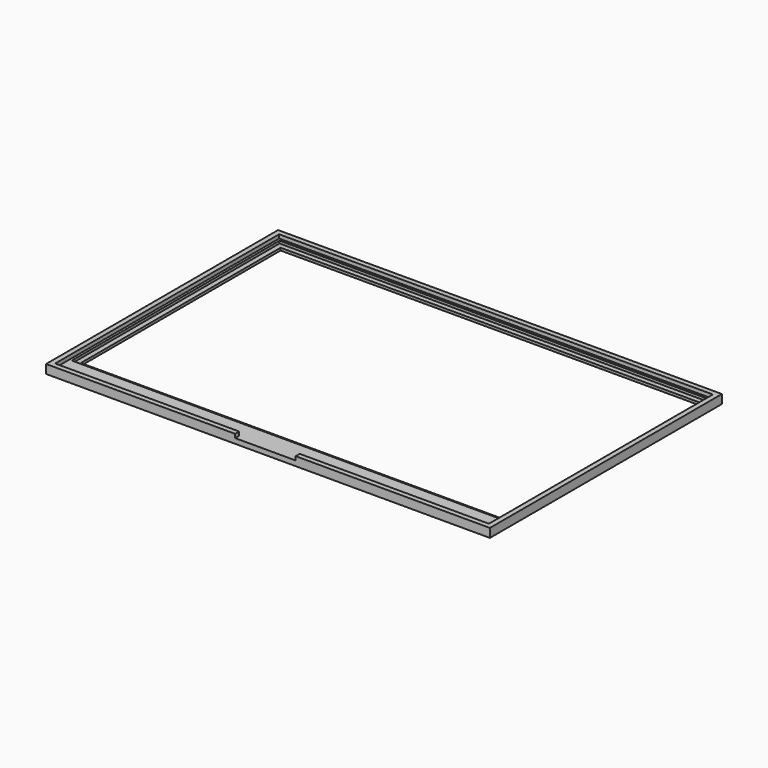
from build123d import *

# Parameters (mm, degrees)
SKETCH025_W     = 176
SKETCH025_H     = 115
SKETCH025_W_2   = 166
SKETCH025_H_2   = 99
PAD009_DEPTH    = 2
SKETCH026_W     = 170
SKETCH026_H     = 103
POCKET012_DEPTH = 1
SKETCH027_W     = 176
SKETCH027_H     = 115
SKETCH027_W_2   = 172
SKETCH027_H_2   = 111
PAD010_DEPTH    = 3.5
SKETCH028_W     = 24
SKETCH028_H     = 15
POCKET013_DEPTH = 1.5


with BuildPart() as part:
    # Sketch025 → Pad009 (new body)
    with BuildSketch(Plane.XY):
        with Locations((86, 115.5)):
            Rectangle(SKETCH025_W, SKETCH025_H)
        with Locations((86, 118.5)):
            Rectangle(SKETCH025_W_2, SKETCH025_H_2, mode=Mode.SUBTRACT)
    extrude(amount=PAD009_DEPTH)

    # Sketch026 → Pocket012 (cut)
    with BuildSketch(Plane.XY.offset(2)):
        with Locations((86, 118.5)):
            Rectangle(SKETCH026_W, SKETCH026_H)
    extrude(amount=-POCKET012_DEPTH, mode=Mode.SUBTRACT)

    # Sketch027 → Pad010 (join)
    with BuildSketch(Plane.XY):
        with Locations((86, 115.5)):
            Rectangle(SKETCH027_W, SKETCH027_H)
        with Locations((86, 115.5)):
            Rectangle(SKETCH027_W_2, SKETCH027_H_2, mode=Mode.SUBTRACT)
    extrude(amount=PAD010_DEPTH)

    # Sketch028 → Pocket013 (cut)
    with BuildSketch(Plane.XY.offset(3.5)):
        with Locations((85, 53.5)):
            Rectangle(SKETCH028_W, SKETCH028_H)
    extrude(amount=-POCKET013_DEPTH, mode=Mode.SUBTRACT)


solid = part.part
